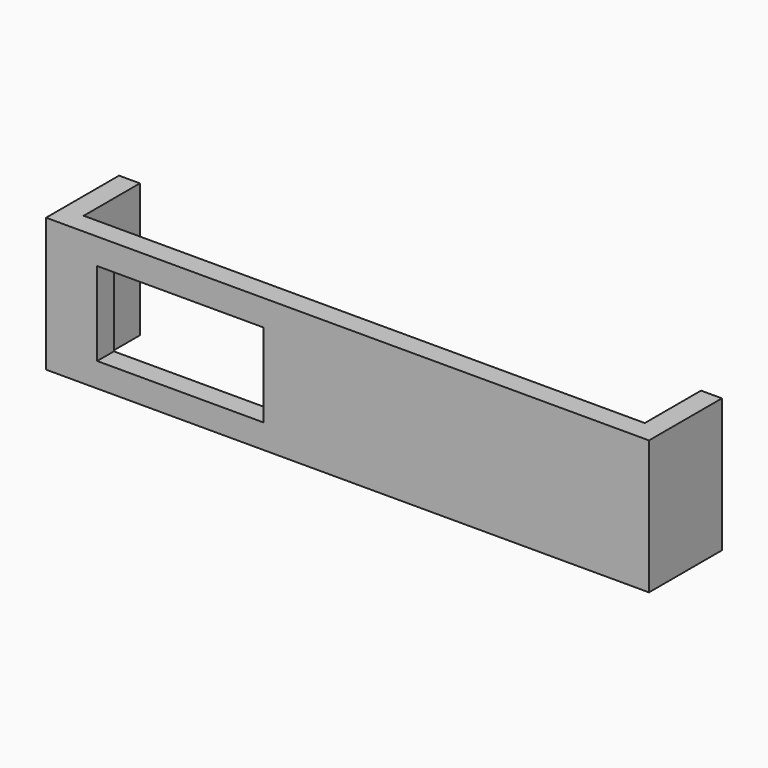
from build123d import *

# Parameters (mm, degrees)
F0_W     = 72.1
F0_H     = 16
F1_DEPTH = 10.9
F2_T     = -2.5
F3_W     = 19.88007
F3_H     = 10
F4_DEPTH = 25


with BuildPart() as f1:
    # F0 (on Front) → F1 (new body)
    with BuildSketch(Plane.XZ):
        with Locations((-0.508198, 5.101174)):
            Rectangle(F0_W, F0_H)
    extrude(amount=F1_DEPTH)

    # F2
    f2_openings = [f1.faces().sort_by_distance(p)[0] for p in [
        (-0.508198, 0, 5.101174),
        (-0.508198, -5.45, 13.101174),
        (-0.508198, -5.45, -2.898826),
    ]]
    offset(amount=F2_T, openings=f2_openings)

    # F3 (on face) → F4 (cut)
    with BuildSketch(Plane.XZ.offset(10.9)):
        with Locations((-20.508622, 5)):
            Rectangle(F3_W, F3_H)
    extrude(amount=-F4_DEPTH, mode=Mode.SUBTRACT)


solid = f1.part
